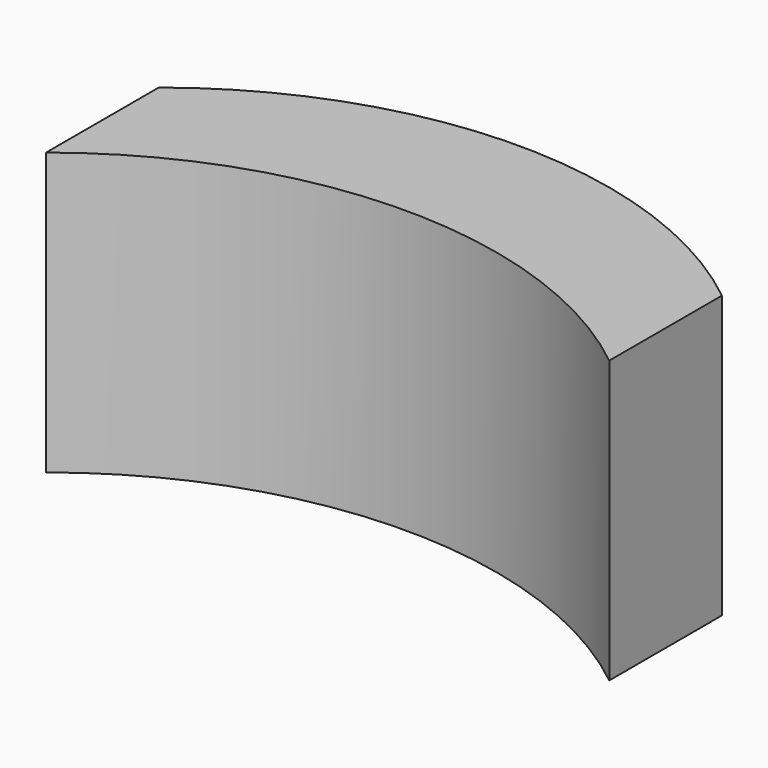
from build123d import *

# Parameters (mm, degrees)
F1_DEPTH = 50


with BuildPart() as f1:
    # F0 (on Top) → F1 (new body)
    with BuildSketch(Plane.XY):
        with BuildLine():
            ThreePointArc((-50, 0), (0, 17.55002), (50, 0))
            Line((50, 0), (50, 25))
            ThreePointArc((50, 25), (0, 42.55002), (-50, 25))
            Line((-50, 25), (-50, 0))
        make_face()
    extrude(amount=-F1_DEPTH)


solid = f1.part
